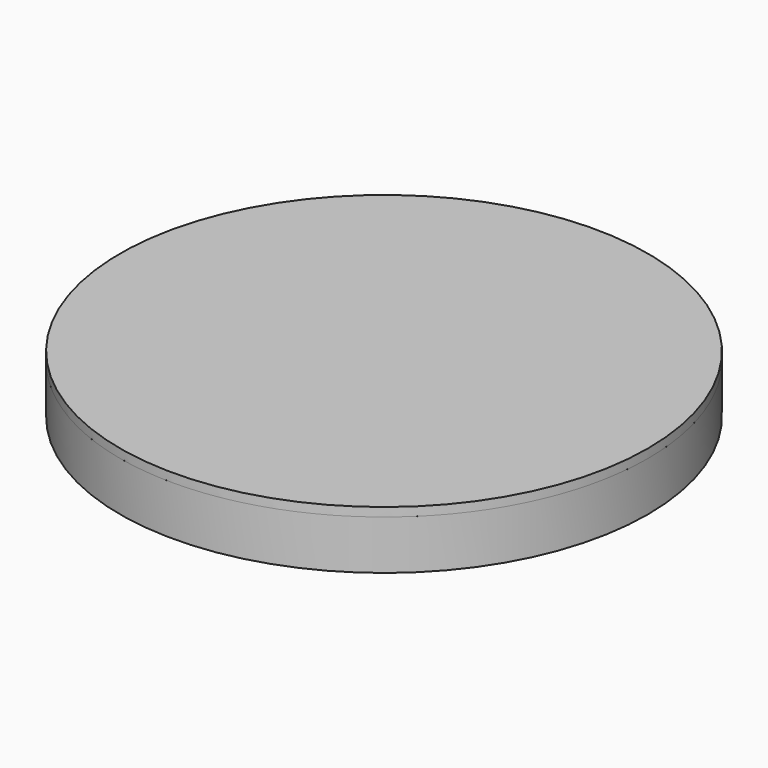
from build123d import *

# Parameters (mm, degrees)
SKETCH002_R           = 150
PAD_DEPTH             = 5
PAD001_DEPTH          = 1
PAD001_DEPTH_BACK     = 1
POLARPATTERN_COUNT    = 36
PAD002_DEPTH          = 1.5
PAD002_DEPTH_BACK     = 1.5
POLARPATTERN001_COUNT = 22
CYLINDER_R            = 43.5
CYLINDER_DEPTH        = 10
TUBE_R                = 150
TUBE_R_2              = 65
TUBE_DEPTH            = 28


with BuildPart() as body:
    # Sketch (on XZ_Plane of Origin) → Revolution (revolve)
    with BuildSketch(Plane.XZ):
        Polygon((30, 22), (30, 0), (36.7997924618, 0), (37.1498962309, 0.5), (49.1498962309, 0.5), (49.5, 0), (55, 0), (55, 22), (49.5, 22), (49.1498962309, 21.5), (37.1498962309, 21.5), (36.7997924618, 22), align=None)
    revolve(axis=Axis((0, 0, 0), (0, 0, 1)))


with BuildPart() as body001:
    # Sketch001 (on XZ_Plane001 of Origin002) → Revolution001 (revolve)
    with BuildSketch(Plane.XZ):
        Polygon((55, 4), (55, 22), (49.5, 22), (49.3249481154, 21.75), (43.1498962309, 21.75), (43.1498962309, 32), (65, 32), (65, 4), align=None)
    revolve(axis=Axis((0, 0, 0), (0, 0, 1)))

    # Sketch002 (on Face6 of Revolution001) → Pad (new body)
    with BuildSketch(Plane.XY.offset(32)):
        Circle(SKETCH002_R)
    extrude(amount=PAD_DEPTH)

    # Sketch003 (on XZ_Plane001 of Origin002) → Pad001 (join, two sides)
    with BuildSketch(Plane.XZ) as pad001_sk:
        Polygon((59.3812446172, 32), (65, 32), (150, 32), (65, 4), (59.3812446172, 4), align=None)
    pad001 = extrude(amount=-PAD001_DEPTH) + extrude(pad001_sk.sketch, amount=PAD001_DEPTH_BACK)

    # PolarPattern: Pad001 ×36 about axis
    polarpattern_axis = Axis((0, 0, 0), (0, 0, 1))
    for i in range(1, POLARPATTERN_COUNT):
        add(pad001.rotate(polarpattern_axis, i * 360 / POLARPATTERN_COUNT))

    # Sketch006 (on XZ_Plane001 of Origin002) → Pad002 (join, two sides)
    with BuildSketch(Plane.XZ) as pad002_sk:
        with BuildLine():
            Line((-43.1498962309, 32), (-43.1498962309, 26.75))
            Line((-43.1498962309, 26.75), (-40.2254720298, 26.75))
            ThreePointArc((0, 32), (-20.2833127227, 30.6819578261), (-40.2254720298, 26.75))
            Line((-43.1498962309, 32), (0, 32))
        make_face()
    pad002 = extrude(amount=-PAD002_DEPTH) + extrude(pad002_sk.sketch, amount=PAD002_DEPTH_BACK)

    # PolarPattern001: Pad002 ×22 about axis
    polarpattern001_axis = Axis((0, 0, 0), (0, 0, 1))
    for i in range(1, POLARPATTERN001_COUNT):
        add(pad002.rotate(polarpattern001_axis, i * 360 / POLARPATTERN001_COUNT))


with BuildPart() as cylinder:
    # Cylinder → Cylinder (new body)
    with BuildSketch(Plane.XY.offset(22)):
        Circle(CYLINDER_R)
    extrude(amount=CYLINDER_DEPTH)


with BuildPart() as tube:
    # Tube → Tube (new body)
    with BuildSketch(Plane.XY.offset(4)):
        Circle(TUBE_R)
        Circle(TUBE_R_2, mode=Mode.SUBTRACT)
    extrude(amount=TUBE_DEPTH)


solid = Compound([body.part, body001.part, cylinder.part, tube.part])
